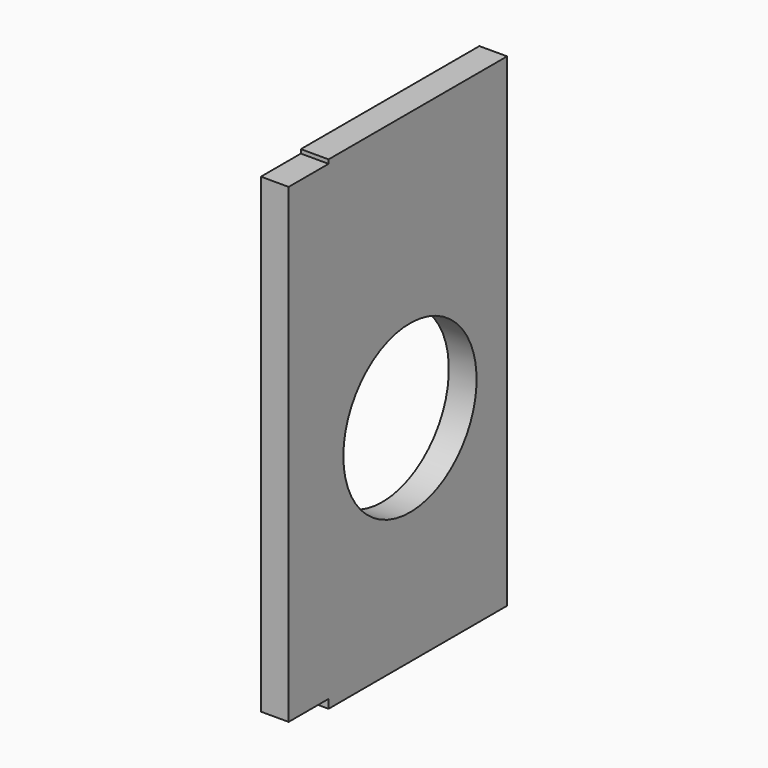
from build123d import *

# Parameters (mm, degrees)
F0_W     = 40.193792
F0_H     = 87.127595
F1_DEPTH = 5
F3_D     = 30
F4_W     = 10.118723
F4_H     = 84.843202
F5_DEPTH = 5


with BuildPart() as f1:
    # F0 (on Right) → F1 (new body)
    with BuildSketch(Plane.YZ):
        with Locations((-20.096896, -19.263864)):
            Rectangle(F0_W, F0_H)
    extrude(amount=F1_DEPTH)

    # F3 (through all)
    with Locations(Plane.YZ.offset(5)):
        with Locations((-21.870809, -24.133997)):
            Hole(F3_D / 2)

    # F4 (on Right) → F5 (join)
    with BuildSketch(Plane.YZ):
        with Locations((-44.12885, -18.829883)):
            Rectangle(F4_W, F4_H)
    extrude(amount=F5_DEPTH)


solid = f1.part
